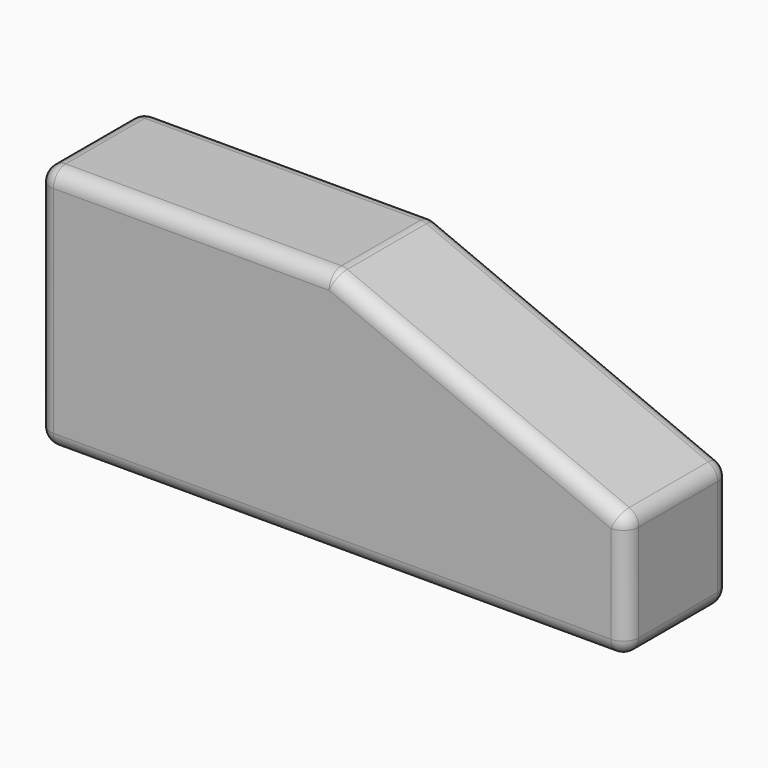
from build123d import *

# Parameters (mm, degrees)
F1_DEPTH = 21.336
F2_R     = 5.08


with BuildPart() as f1:
    # F0 (on Front) → F1 (new body, symmetric)
    with BuildSketch(Plane.XZ):
        Polygon((0, 40.599267), (-96.987128, 40.599267), (-96.987128, -40.599267), (96.987128, -40.599267), (96.987128, 0), align=None)
    extrude(amount=F1_DEPTH, both=True)

    # F2
    f2_edges = [f1.edges().sort_by_distance(p)[0] for p in [
        (-48.493564, -21.336, 40.599267),
        (48.493564, -21.336, 20.299633),
        (96.987128, -21.336, -20.299633),
        (96.987128, 0, 0),
        (0, -21.336, -40.599267),
        (48.493564, 21.336, 20.299633),
        (-48.493564, 21.336, 40.599267),
        (-96.987128, 0, 40.599267),
        (-96.987128, -21.336, 0),
        (-96.987128, 21.336, 0),
        (0, 21.336, -40.599267),
        (-96.987128, 0, -40.599267),
        (96.987128, 21.336, -20.299633),
        (96.987128, 0, -40.599267),
        (0, 0, 40.599267),
    ]]
    fillet(f2_edges, radius=F2_R)


solid = f1.part
